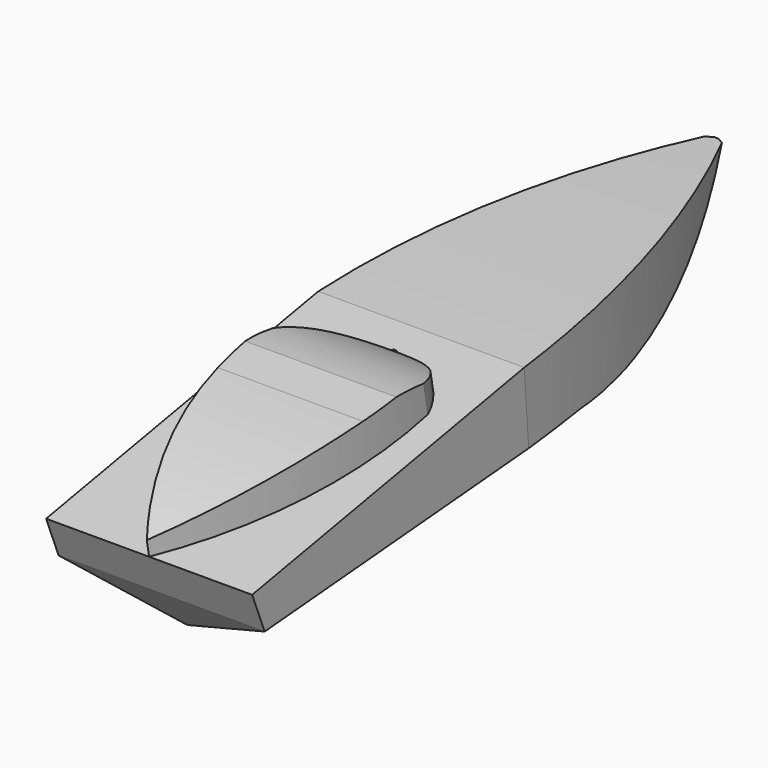
from build123d import *

# Parameters (mm, degrees)
F1_DEPTH  = 2438.4
F5_DEPTH  = 1778
F7_DEPTH  = 457.2
F9_DEPTH  = 2540
F11_DEPTH = 3048


with BuildPart() as f1:
    # F0 (on Right) → F1 (new body)
    with BuildSketch(Plane.YZ):
        with BuildLine():
            Line((377.9987151826, 135.2236118261), (-4029.5864412308, -665.9896395924))
            Line((-4029.5864412308, -665.9896395924), (-3844.1437633933, -1124.3480489464))
            Line((-3844.1437633933, -1124.3480489464), (-647.3504577027, -712.7042072919))
            ThreePointArc((-647.3504577027, -712.7042072919), (1843.9451020494, -315.2318028885), (4306.7618365861, 231.6425980383))
            ThreePointArc((4306.7618365861, 231.6425980382), (4407.5158315541, 340.2223663729), (4504.8135587692, 451.9098136192))
            Line((4504.8135587692, 451.9098136192), (377.9987151826, 135.2236118261))
        make_face()
        with BuildLine():
            Line((-647.3504577027, -712.7042072919), (-3844.1437633933, -1124.3480489464))
            Line((-3844.1437633933, -1124.3480489464), (-3469.5198621776, -1600.323006257))
            Line((-3469.5198621776, -1600.323006257), (1285.2997779846, -1208.1356048584))
            ThreePointArc((1285.2997779846, -1208.1356048584), (2927.9174871926, -765.0187163613), (4306.7618365861, 231.6425980382))
            ThreePointArc((4306.7618365861, 231.6425980383), (1843.9451020494, -315.2318028885), (-647.3504577027, -712.7042072919))
        make_face()
    extrude(amount=F1_DEPTH)

    # F3: sweep along a path in F3_path
    with BuildLine(Plane(origin=(0, 1285.2997779846, -1208.1356048584), x_dir=(0, 0, -1), z_dir=(-1, 0, 0))) as f3_path:
        Line((392.1874013986, 4754.8196401622), (0, 0))
        ThreePointArc((0, 0), (-508.9263936823, -1775.3205449761), (-1660.0454184776, -3219.5137807846))
    # F2 (on face) → F3 (sweep, cut)
    with BuildSketch(Plane(origin=(0, -3694.326601836, -1494.6509191709), x_dir=(1, 0, 0), z_dir=(0, -0.9270054246, -0.3750479206))):
        Polygon((1219.2, -136.5429013968), (0, 399.4613843586), (-71.0772573948, -501.8420815468), (2438.4, -501.8420815468), (2438.4, 399.4613843586), align=None)
    sweep(path=f3_path.line, mode=Mode.SUBTRACT)

    # F4 (on face) → F5 (cut)
    with BuildSketch(Plane(origin=(0, -8.1031926617, 105.5946724783), x_dir=(1, 0, 0), z_dir=(0, -0.0765136935, 0.9970685306))):
        with BuildLine():
            ThreePointArc((0, 0), (363.1342183631, 2329.48204323), (1219.2, 4526.1851246198))
            Line((1219.2, 4526.1851246198), (534.2249274254, 5322.0548629761))
            Line((534.2249274254, 5322.0548629761), (-2186.4547729492, 4425.2166748047))
            Line((-2186.4547729492, 4425.2166748047), (0, 0))
        make_face()
        with BuildLine():
            Line((1904.1750725746, 5322.0548629761), (1219.2, 4526.1851246198))
            ThreePointArc((1219.2, 4526.1851246198), (2075.2657816369, 2329.48204323), (2438.4, 0))
            Line((2438.4, 0), (4624.8547729492, 4425.2166748047))
            Line((4624.8547729492, 4425.2166748047), (1904.1750725746, 5322.0548629761))
        make_face()
    extrude(amount=-F5_DEPTH, mode=Mode.SUBTRACT)

    # F6 (on face) → F7 (join)
    with BuildSketch(Plane(origin=(0, -11.7036325464, 64.3833049395), x_dir=(1, 0, 0), z_dir=(0, -0.1788495973, 0.983876426))):
        with BuildLine():
            ThreePointArc((2108.7896796397, -1023.0345726013), (1219.2, -389.3429801602), (329.6103203603, -1023.0345726013))
            ThreePointArc((329.6103203603, -1023.0345726013), (514.4325154291, -2628.9418269754), (1219.2, -4083.7270847139))
            ThreePointArc((1219.2, -4083.7270847139), (1923.9674845709, -2628.9418269754), (2108.7896796397, -1023.0345726013))
        make_face()
    extrude(amount=F7_DEPTH)

    # F8 (on face) → F9 (cut)
    with BuildSketch(Plane(origin=(0, 0, 0), x_dir=(0, -1, 0), z_dir=(-1, 0, 0))):
        with BuildLine():
            ThreePointArc((1940.2630677624, 174.7445133757), (3072.205815087, -104.7576214956), (4160.6681087808, -522.6878331641))
            Line((4160.6681087808, -522.6878331641), (4638.783454895, 0))
            Line((4638.783454895, 0), (528.8701057434, 969.933450222))
            Line((528.8701057434, 969.933450222), (395.6124520846, -5.4038512095))
            ThreePointArc((395.6124520846, -5.4038512095), (925.7254432157, 197.8619063291), (1490.4347658157, 256.5145492554))
            Line((1490.4347658157, 256.5145492554), (1940.2630677624, 174.7445133757))
        make_face()
    extrude(amount=-F9_DEPTH, mode=Mode.SUBTRACT)

    # F10 (on face) → F11 (cut)
    with BuildSketch(Plane(origin=(0, 0, 0), x_dir=(0, -1, 0), z_dir=(-1, 0, 0))):
        with BuildLine():
            ThreePointArc((-4525.1979827881, 290.6661033631), (-2258.1192724668, 217.6393923673), (5.033730361, 65.5957634235))
            Line((5.033730361, 65.5957634234), (5.033730361, 304.927110672))
            Line((5.033730361, 304.927110672), (-5028.8562774658, 826.0288238525))
            Line((-5028.8562774658, 826.0288238525), (-4953.3167525953, 296.9857278018))
            Line((-4953.3167525953, 296.9857278018), (-4525.1979827881, 290.666103363))
        make_face()
    extrude(amount=-F11_DEPTH, mode=Mode.SUBTRACT)


solid = f1.part
